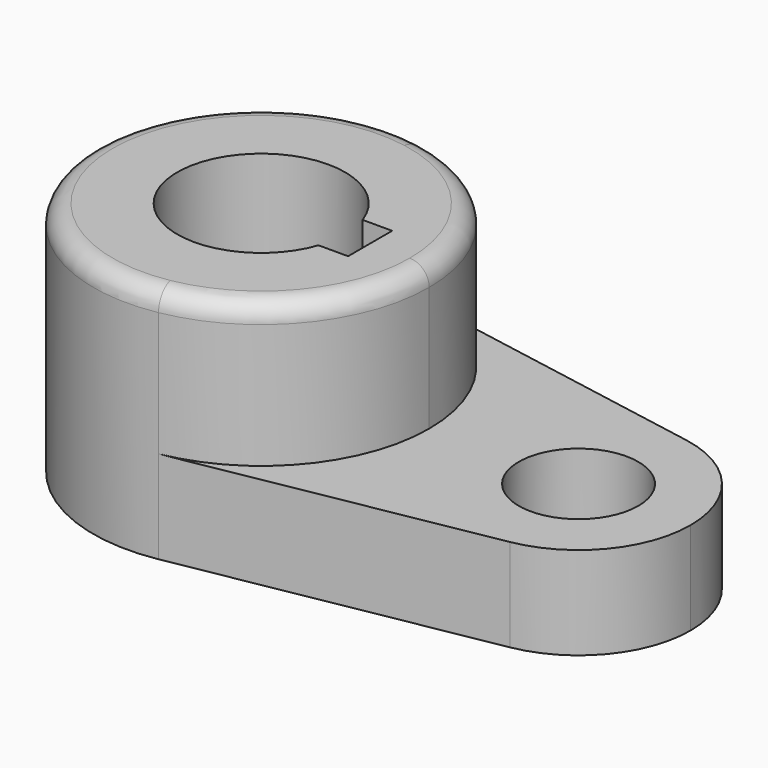
from build123d import *

# Parameters (mm, degrees)
F1_DEPTH = 40.2336
F0_R     = 10.16
F2_DEPTH = 15.7734
F3_R     = 3.302


with BuildPart() as f1:
    # F0 (on Top) → F1 (new body)
    with BuildSketch(Plane.XY):
        with BuildLine():
            ThreePointArc((5.042647, -28.126541), (21.916025, -18.336262), (28.575, 0))
            ThreePointArc((28.575, 0), (21.916025, 18.336262), (5.042647, 28.126541))
            ThreePointArc((5.042647, 28.126541), (-28.575, 0), (5.042647, -28.126541))
        make_face()
        with BuildLine():
            ThreePointArc((13.497268, -4.685767), (-14.2875, 0), (13.497268, 4.685767))
            Line((13.497268, 4.685767), (18.5293, 4.685767))
            Line((18.5293, 4.685767), (18.5293, -4.685767))
            Line((18.5293, -4.685767), (13.497268, -4.685767))
        make_face(mode=Mode.SUBTRACT)
    extrude(amount=F1_DEPTH)

    # F0 (on Top) → F2 (join)
    with BuildSketch(Plane.XY):
        with BuildLine():
            ThreePointArc((5.042647, -28.126541), (21.916025, -18.336262), (28.575, 0))
            ThreePointArc((28.575, 0), (21.916025, 18.336262), (5.042647, 28.126541))
            ThreePointArc((5.042647, 28.126541), (-28.575, 0), (5.042647, -28.126541))
        make_face()
        with BuildLine():
            ThreePointArc((13.497268, -4.685767), (-14.2875, 0), (13.497268, 4.685767))
            Line((13.497268, 4.685767), (18.5293, 4.685767))
            Line((18.5293, 4.685767), (18.5293, -4.685767))
            Line((18.5293, -4.685767), (13.497268, -4.685767))
        make_face(mode=Mode.SUBTRACT)
        with BuildLine():
            ThreePointArc((5.042647, 28.126541), (21.916025, 18.336262), (28.575, 0))
            ThreePointArc((28.575, 0), (21.916025, -18.336262), (5.042647, -28.126541))
            Line((5.042647, -28.126541), (57.336765, -18.751028))
            ThreePointArc((57.336765, -18.751028), (34.925, 0), (57.336765, 18.751028))
            Line((57.336765, 18.751028), (5.042647, 28.126541))
        make_face()
        with BuildLine():
            ThreePointArc((73.025, 0), (68.585683, 12.224174), (57.336765, 18.751028))
            ThreePointArc((57.336765, 18.751028), (34.925, 0), (57.336765, -18.751028))
            ThreePointArc((57.336765, -18.751028), (68.585683, -12.224174), (73.025, 0))
        make_face()
        with Locations((53.975, 0)):
            Circle(F0_R, mode=Mode.SUBTRACT)
    extrude(amount=F2_DEPTH)

    # F3
    f3_edges = [f1.edges().sort_by_distance(p)[0] for p in [
        (-5.042647, 28.126541, 40.2336),
    ]]
    fillet(f3_edges, radius=F3_R)


solid = f1.part
